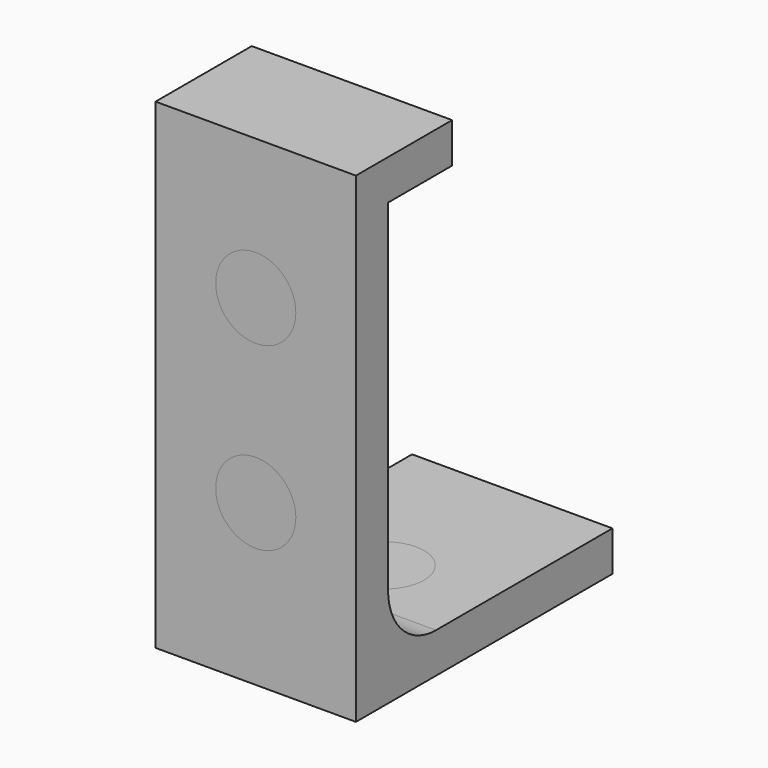
from build123d import *

# Parameters (mm, degrees)
BOX002_W        = 10
BOX002_H        = 10
BOX002_DEPTH    = 22
BOX001_W        = 10
BOX001_H        = 14
BOX001_DEPTH    = 20
BOX_W           = 10
BOX_H           = 16
BOX_DEPTH       = 24
SKETCH_R        = 2
POCKET_DEPTH    = 16.001
SKETCH001_R     = 2
POCKET001_DEPTH = 24.001
FILLET_R        = 3
POCKET002_DEPTH = 16.001
FILLET001_R     = 3


with BuildPart() as cubo002:
    # Box002 → Box002 (new body)
    with BuildSketch(Plane(origin=(0, 6, 2), x_dir=(1, 0, 0), z_dir=(0, 0, 1))):
        with Locations((5, 5)):
            Rectangle(BOX002_W, BOX002_H)
    extrude(amount=BOX002_DEPTH)


with BuildPart() as cubo001:
    # Box001 → Box001 (new body)
    with BuildSketch(Plane(origin=(0, 2, 2), x_dir=(1, 0, 0), z_dir=(0, 0, 1))):
        with Locations((5, 7)):
            Rectangle(BOX001_W, BOX001_H)
    extrude(amount=BOX001_DEPTH)


with BuildPart() as cut:
    # Box → Box (new body)
    with BuildSketch(Plane.XY):
        with Locations((5, 8)):
            Rectangle(BOX_W, BOX_H)
    extrude(amount=BOX_DEPTH)

    # Cut: cut Cubo001
    add(cubo001.part, mode=Mode.SUBTRACT)


with BuildPart() as cut001:
    # Cut001 base: copy of Cut
    add(cut.part)

    # Cut001: cut Cubo002
    add(cubo002.part, mode=Mode.SUBTRACT)


with BuildPart() as pocket001:
    # Pocket base: copy of Cut001
    add(cut001.part)

    # Sketch → Pocket (cut, through all)
    with BuildSketch(Plane.XZ):
        with Locations((5, 8)):
            Circle(SKETCH_R)
        with Locations((5, 17)):
            Circle(SKETCH_R)
    extrude(amount=-POCKET_DEPTH, mode=Mode.SUBTRACT)

    # Sketch001 → Pocket001 (cut, through all)
    with BuildSketch(Plane(origin=(0, 0, 0), x_dir=(1, 0, 0), z_dir=(0, 0, -1))):
        with Locations((5, -8)):
            Circle(SKETCH001_R)
    extrude(amount=-POCKET001_DEPTH, mode=Mode.SUBTRACT)


with BuildPart() as fillet_body:
    # Fillet base: copy of Pocket001
    add(pocket001.part)

    # Fillet
    fillet_edges = [fillet_body.edges().sort_by_distance(p)[0] for p in [
        (5, 2, 2),
    ]]
    fillet(fillet_edges, radius=FILLET_R)


with BuildPart() as cut002:
    # Cut002 base: copy of Cut
    add(cut.part)

    # Cut002: cut Cubo002
    add(cubo002.part, mode=Mode.SUBTRACT)


with BuildPart() as pocket002:
    # Pocket002 base: copy of Cut001
    add(cut001.part)

    # Sketch → Pocket002 (cut, through all)
    with BuildSketch(Plane.XZ):
        with Locations((5, 8)):
            Circle(SKETCH_R)
        with Locations((5, 17)):
            Circle(SKETCH_R)
    extrude(amount=-POCKET002_DEPTH, mode=Mode.SUBTRACT)


with BuildPart() as fillet001:
    # Fillet001 base: copy of Pocket001
    add(pocket001.part)

    # Fillet001
    fillet001_edges = [fillet001.edges().sort_by_distance(p)[0] for p in [
        (5, 2, 2),
    ]]
    fillet(fillet001_edges, radius=FILLET001_R)


solid = Compound([fillet_body.part, cut002.part, pocket002.part, fillet001.part])
